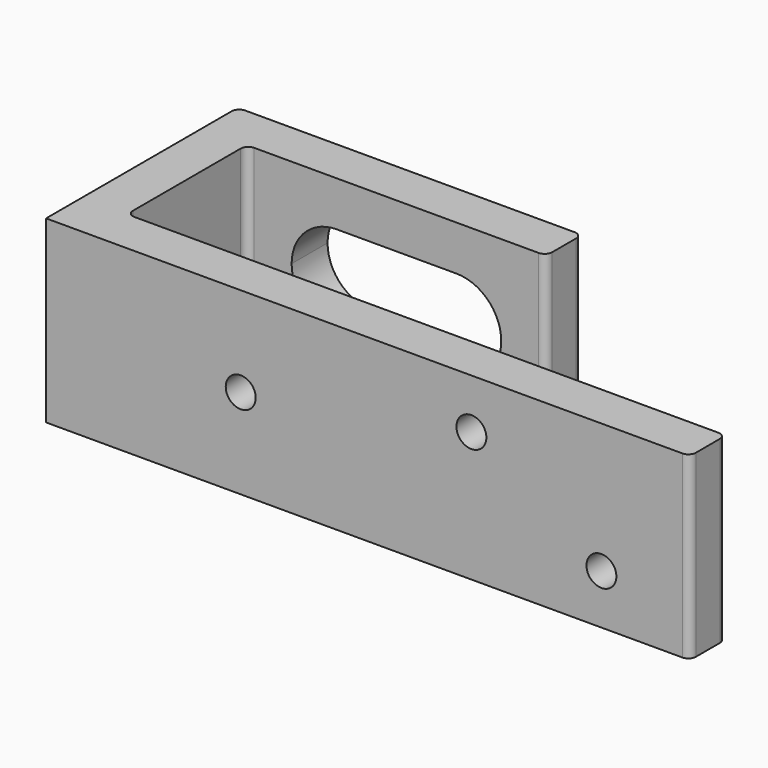
from build123d import *

# Parameters (mm, degrees)
F0_W      = 40
F0_H      = 6
F0_W_2    = 80
F1_DEPTH  = 24
F2_R      = 1
F3_R      = 1
F4_R      = 1
F5_R      = 1
F6_R      = 1
F7_R      = 1
F8_R      = 1
F10_DEPTH = 6
F11_R     = 2
F12_DEPTH = 6


with BuildPart() as f1:
    # F0 (on Top) → F1 (new body)
    with BuildSketch(Plane.XY):
        with Locations((20, 29)):
            Rectangle(F0_W, F0_H)
        with Locations((40, 3)):
            Rectangle(F0_W_2, F0_H)
        Polygon((-6, 0), (0, 0), (0, 6), (0, 26), (0, 32), (-6, 32), align=None)
    extrude(amount=F1_DEPTH)

    # F2
    f2_edges = [f1.edges().sort_by_distance(p)[0] for p in [
        (0, 6, 12),
    ]]
    fillet(f2_edges, radius=F2_R)

    # F3
    f3_edges = [f1.edges().sort_by_distance(p)[0] for p in [
        (80, 6, 12),
    ]]
    fillet(f3_edges, radius=F3_R)

    # F4
    f4_edges = [f1.edges().sort_by_distance(p)[0] for p in [
        (80, 0, 12),
    ]]
    fillet(f4_edges, radius=F4_R)

    # F5
    f5_edges = [f1.edges().sort_by_distance(p)[0] for p in [
        (0, 26, 12),
    ]]
    fillet(f5_edges, radius=F5_R)

    # F6
    f6_edges = [f1.edges().sort_by_distance(p)[0] for p in [
        (40, 32, 12),
    ]]
    fillet(f6_edges, radius=F6_R)

    # F7
    f7_edges = [f1.edges().sort_by_distance(p)[0] for p in [
        (40, 26, 12),
    ]]
    fillet(f7_edges, radius=F7_R)

    # F8
    f8_edges = [f1.edges().sort_by_distance(p)[0] for p in [
        (-6, 32, 12),
    ]]
    fillet(f8_edges, radius=F8_R)

    # F9 (on face) → F10 (cut)
    with BuildSketch(Plane(origin=(0, 32, 0), x_dir=(-1, 0, 0), z_dir=(0, 1, 0))):
        with BuildLine():
            ThreePointArc((-28, 6), (-23.7573593129, 7.7573593129), (-22, 12))
            ThreePointArc((-22, 12), (-23.7573593129, 16.2426406871), (-28, 18))
            Line((-28, 18), (-28, 6))
        make_face()
        with BuildLine():
            ThreePointArc((-28, 18), (-23.7573593129, 16.2426406871), (-22, 12))
            ThreePointArc((-22, 12), (-23.7573593129, 7.7573593129), (-28, 6))
            Line((-28, 6), (-12, 6))
            ThreePointArc((-12, 6), (-18, 12), (-12, 18))
            Line((-12, 18), (-28, 18))
        make_face()
        with BuildLine():
            Line((-28, 6), (-28, 18))
            ThreePointArc((-28, 18), (-34, 12), (-28, 6))
        make_face()
        with BuildLine():
            Line((-12, 6), (-12, 18))
            ThreePointArc((-12, 18), (-18, 12), (-12, 6))
        make_face()
        with BuildLine():
            ThreePointArc((-6, 12), (-7.7573593129, 16.2426406871), (-12, 18))
            Line((-12, 18), (-12, 6))
            ThreePointArc((-12, 6), (-7.7573593129, 7.7573593129), (-6, 12))
        make_face()
    extrude(amount=-F10_DEPTH, mode=Mode.SUBTRACT)

    # F11 (on face) → F12 (cut)
    with BuildSketch(Plane(origin=(0, 6, 0), x_dir=(-1, 0, 0), z_dir=(0, 1, 0))):
        with Locations((-20, 12)):
            Circle(F11_R)
        with Locations((-68.1839393779, 6.6560373059)):
            Circle(F11_R)
        with Locations((-50.8160606221, 17.3439626941)):
            Circle(F11_R)
    extrude(amount=-F12_DEPTH, mode=Mode.SUBTRACT)


solid = f1.part
